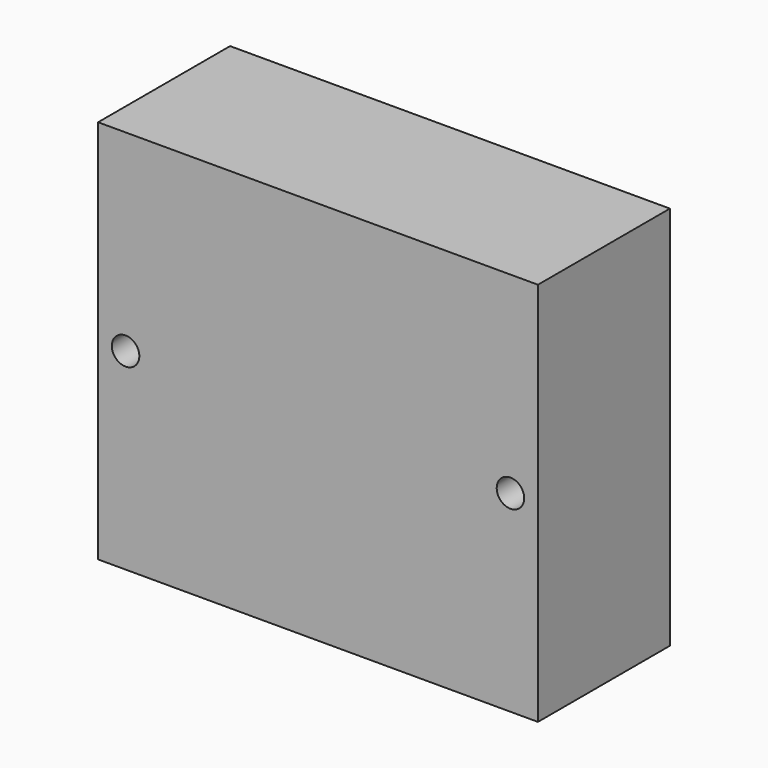
from build123d import *

# Parameters (mm, degrees)
F0_W     = 101.6
F0_H     = 88.9
F1_DEPTH = 38.1
F3_D     = 6.35
F4_D     = 6.35


with BuildPart() as f1:
    # F0 (on Front) → F1 (new body)
    with BuildSketch(Plane.XZ):
        with Locations((22.29446, 9.495236)):
            Rectangle(F0_W, F0_H)
    extrude(amount=F1_DEPTH)

    # F3 (through all)
    with Locations(Plane.XZ.offset(38.1)):
        with Locations((-22.15554, 9.495236)):
            Hole(F3_D / 2)

    # F4 (through all)
    with Locations(Plane.XZ.offset(38.1)):
        with Locations((66.74446, 9.495236)):
            Hole(F4_D / 2)


solid = f1.part
